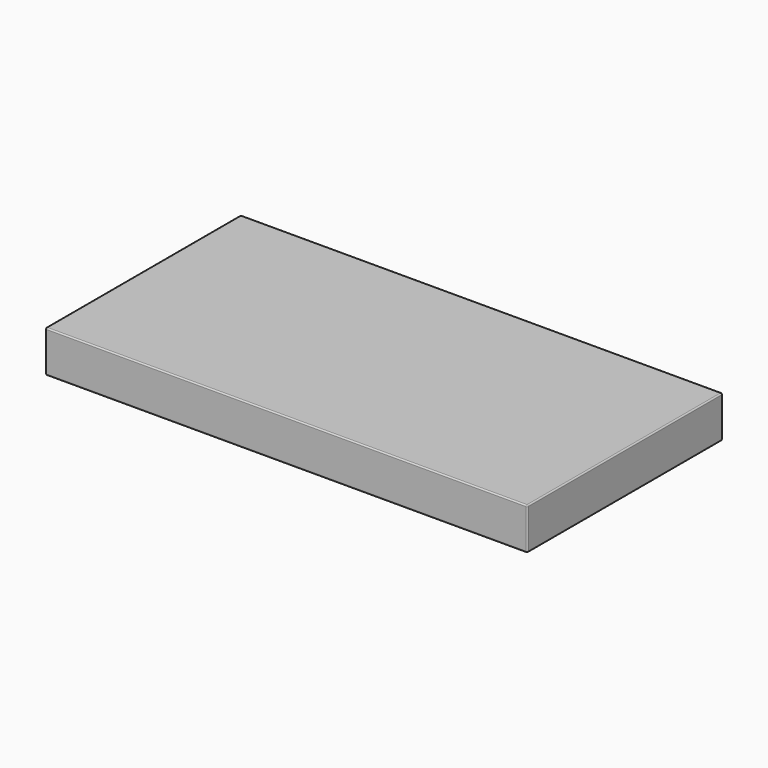
from build123d import *

# Parameters (mm, degrees)
F0_W     = 1905
F0_H     = 965.2
F1_DEPTH = 165.1
F2_T     = -2.54
F3_R     = 5.08


with BuildPart() as f1:
    # F0 (on Top) → F1 (new body)
    with BuildSketch(Plane.XY):
        Rectangle(F0_W, F0_H)
    extrude(amount=F1_DEPTH)

    # F2 (hollow: no face is removed)
    offset(amount=F2_T, mode=Mode.SUBTRACT)

    # F3
    f3_edges = [f1.edges().sort_by_distance(p)[0] for p in [
        (-952.5, -482.6, 82.55),
        (952.5, -482.6, 82.55),
        (0, -482.6, 0),
        (0, -482.6, 165.1),
        (-952.5, 482.6, 82.55),
        (-952.5, 0, 0),
        (-952.5, 0, 165.1),
        (952.5, 0, 165.1),
        (0, 482.6, 165.1),
        (952.5, 0, 0),
        (0, 482.6, 0),
        (952.5, 482.6, 82.55),
    ]]
    fillet(f3_edges, radius=F3_R)


solid = f1.part
